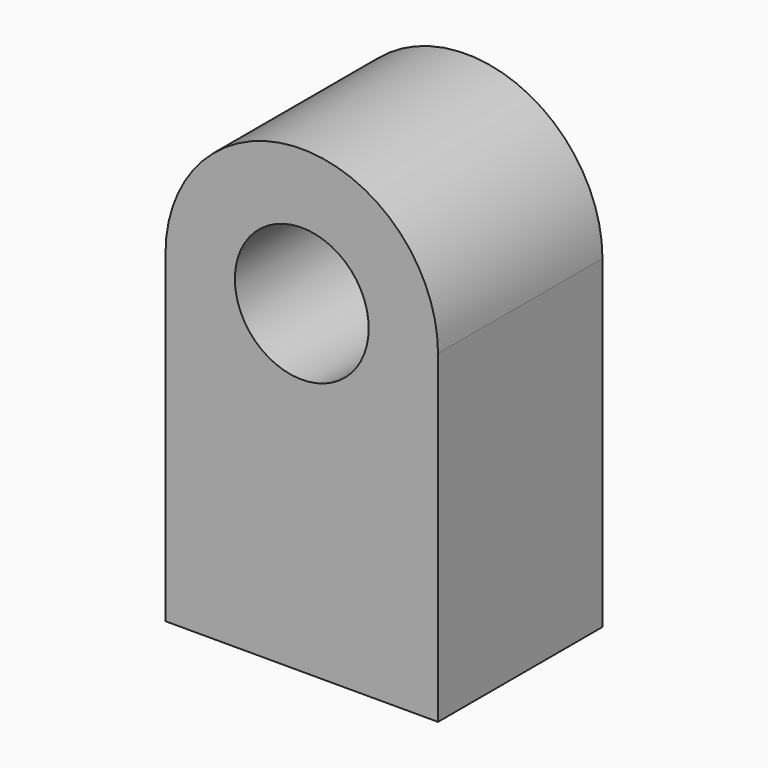
from build123d import *

# Parameters (mm, degrees)
F0_R     = 10.336824
F1_DEPTH = 31.75


with BuildPart() as f1:
    # F0 (on Front) → F1 (new body)
    with BuildSketch(Plane.XZ):
        with BuildLine():
            ThreePointArc((-13.146772, 58.721706), (-34.264862, 79.693094), (-55.23625, 58.575004))
            Line((-55.23625, 58.575004), (-55.23625, 8.617666))
            Line((-55.23625, 8.617666), (-13.146772, 8.617666))
            Line((-13.146772, 8.617666), (-13.146772, 58.721706))
        make_face()
        with Locations((-34.191511, 58.648355)):
            Circle(F0_R, mode=Mode.SUBTRACT)
    extrude(amount=F1_DEPTH)


solid = f1.part
